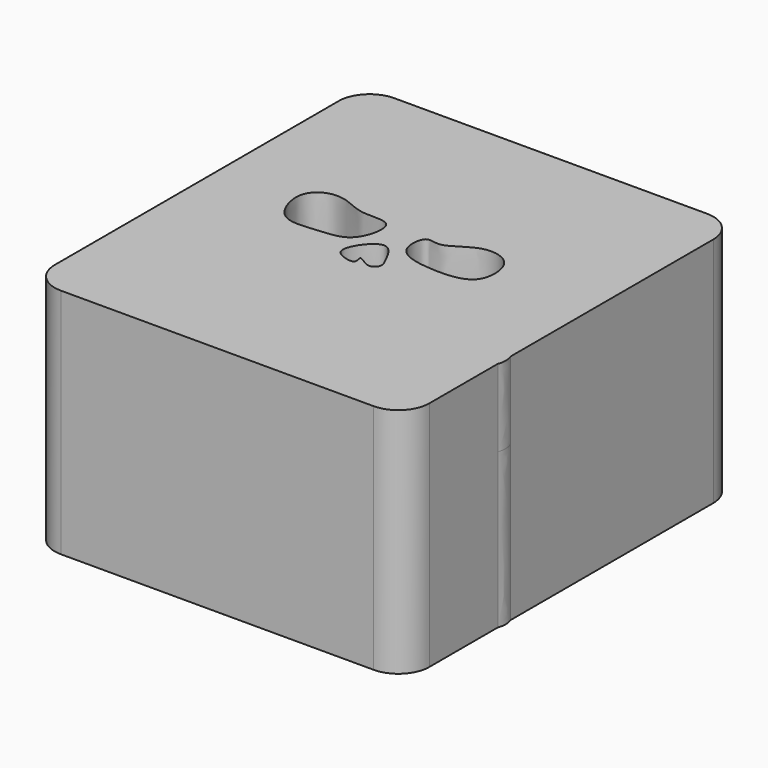
from build123d import *

# Parameters (mm, degrees)
F1_DEPTH = 12.7
F2_DEPTH = 25.4


with BuildPart() as f1:
    # F0 (on Top) → F1 (new body)
    with BuildSketch(Plane.XY):
        with BuildLine():
            add(Edge.make_bspline(
                [(32.0600830018, -6.9587179934), (31.9279431466, -7.2655833349), (30.6961275394, -9.0813052485), (24.791663381, -8.056520931), (22.2785653578, -6.8297847191), (16.3749937923, -7.6860126893), (9.1538072627, -9.6365706593), (21.0394473651, -13.1174215567), (21.7646715107, -8.4218784607), (26.8757679457, -9.6192253384), (24.4571880864, -14.7097531865), (27.2277815795, -15.5632771856), (27.2688108759, -21.0690380623), (20.9317791593, -21.5004092712), (19.7785765546, -15.3029212456), (4.4664783408, -13.8315983034), (2.3876221669, -11.9187555489), (-6.9774400736, -14.803991134), (-10.9186975514, -14.98024999), (-14.2636249239, -16.3785419309), (-14.8010905155, -20.5392096864), (-19.8013697728, -21.9770988567), (-20.0496302774, -17.9500658207), (-24.8978081217, -18.2888937076), (-26.4995584652, -14.0884455986), (-22.9086976911, -10.7859382167), (-17.5875054636, -13.5862391176), (-7.7808817805, -9.5727542339), (-19.6728530529, -7.4934024055), (-22.4866685608, -10.6918802178), (-26.6301293609, -10.0563743781), (-25.6837292438, -6.9094906148), (-29.9559645622, -3.9316833795), (-27.6001470413, -1.5156820107), (-24.3746840641, 1.0480248366), (-21.5536743393, -3.3252973712), (-8.2074081298, -5.7680272658), (-12.7065916165, -2.7540087512), (-6.860693336, 0.8520234929), (-13.8716656814, 0.0011957897), (-18.8939763988, -0.9843613641), (-19.8877176996, 2.5672232338), (-17.0837583564, 4.807611508), (-21.1741542883, 9.4925146081), (-22.1415771702, 14.4084623248), (-19.7709394835, 17.2985035609), (-21.130572587, 25.1078773987), (-16.6736603832, 37.2404957551), (0.0105530796, 43.9563039301), (13.3217740467, 39.1018456604), (21.214562196, 31.0295967972), (20.1092636644, 19.0706830261), (25.2483770353, 14.7007120639), (17.3856596217, 6.5350889048), (21.4718992519, 5.213301594), (19.6113848455, -2.3022457903), (10.6591475173, 0.4778285608), (10.375129059, 0)],
                knots=[0.1258052667, 0.1258052667, 0.1258052667, 0.1258052667, 0.1290063272, 0.1469978802, 0.1595257596, 0.1775753444, 0.1917199496, 0.2117601133, 0.2250067333, 0.2376369789, 0.2521137174, 0.262530201, 0.2770292776, 0.2918862682, 0.3080887494, 0.3347089141, 0.3472367932, 0.3686209116, 0.3835259948, 0.3959133533, 0.4099117027, 0.4235852796, 0.4353005194, 0.4495008004, 0.462727898, 0.47621158, 0.49396925, 0.5113598928, 0.530824366, 0.5461552724, 0.5582206026, 0.5694884324, 0.5840245065, 0.5955225697, 0.6083315878, 0.6242625106, 0.646958663, 0.6566398427, 0.670297896, 0.6850923617, 0.7014159022, 0.712591613, 0.7242643802, 0.7408965725, 0.7564728501, 0.7692249333, 0.7884930391, 0.8133418637, 0.8423309575, 0.8685650454, 0.8916665626, 0.9153003126, 0.9317575383, 0.9524921578, 0.9636311935, 0.9800078263, 1, 1, 1, 1], degree=3))
            add(Edge.make_bspline(
                [(10.375129059, 0), (10.1954984175, -0.3022080022), (13.2262800231, -2.300692347), (11.2575333323, -5.5660512266), (16.2652582547, -3.0549915603), (19.6837468577, -2.442276314), (24.0024884598, -0.3217624652), (24.3241350746, 1.7953321471), (27.6634241271, 2.5279411056), (26.7607617348, -2.4410175394), (30.9244000425, -2.3702453862), (31.9255405749, -4.0174952536), (32.0600830019, -4.3580081507)],
                knots=[0, 0, 0, 0, 0.0126442732, 0.0228755931, 0.03664556, 0.0514679112, 0.0662850498, 0.0762354893, 0.0864878847, 0.0994736568, 0.1142118622, 0.1176193812, 0.1176193812, 0.1176193812, 0.1176193812], degree=3))
            Line((32.0600830019, -4.3580081507), (32.0600830019, 37.2617426646))
            ThreePointArc((32.0600830019, 37.2617426646), (30.5721854503, 40.853845113), (26.9800830019, 42.3417426646))
            Line((26.9800830019, 42.3417426646), (-24.3629324567, 42.3417426646))
            ThreePointArc((-24.3629324567, 42.3417426646), (-27.9550349052, 40.853845113), (-29.4429324567, 37.2617426646))
            Line((-29.4429324567, 37.2617426646), (-29.4429324567, -20.9980267417))
            ThreePointArc((-29.4429324567, -20.9980267417), (-27.9550349052, -24.5901291902), (-24.3629324567, -26.0780267417))
            Line((-24.3629324567, -26.0780267417), (26.9800830019, -26.0780267417))
            ThreePointArc((26.9800830019, -26.0780267417), (30.5721854503, -24.5901291902), (32.0600830019, -20.9980267417))
            Line((32.0600830019, -20.9980267417), (32.0600830019, -6.9587179934))
        make_face()
        with BuildLine():
            add(Edge.make_bspline(
                [(10.375129059, 0), (10.1954984175, -0.3022080022), (13.2262800231, -2.300692347), (11.2575333323, -5.5660512266), (16.2652582547, -3.0549915603), (19.6837468577, -2.442276314), (24.0024884598, -0.3217624652), (24.3241350746, 1.7953321471), (27.6634241271, 2.5279411056), (26.7607617348, -2.4410175394), (30.9244000425, -2.3702453862), (31.9255405749, -4.0174952536), (32.0600830019, -4.3580081507)],
                knots=[0, 0, 0, 0, 0.0126442732, 0.0228755931, 0.03664556, 0.0514679112, 0.0662850498, 0.0762354893, 0.0864878847, 0.0994736568, 0.1142118622, 0.1176193812, 0.1176193812, 0.1176193812, 0.1176193812], degree=3))
            add(Edge.make_bspline(
                [(32.0600830018, -6.9587179934), (31.9279431466, -7.2655833349), (30.6961275394, -9.0813052485), (24.791663381, -8.056520931), (22.2785653578, -6.8297847191), (16.3749937923, -7.6860126893), (9.1538072627, -9.6365706593), (21.0394473651, -13.1174215567), (21.7646715107, -8.4218784607), (26.8757679457, -9.6192253384), (24.4571880864, -14.7097531865), (27.2277815795, -15.5632771856), (27.2688108759, -21.0690380623), (20.9317791593, -21.5004092712), (19.7785765546, -15.3029212456), (4.4664783408, -13.8315983034), (2.3876221669, -11.9187555489), (-6.9774400736, -14.803991134), (-10.9186975514, -14.98024999), (-14.2636249239, -16.3785419309), (-14.8010905155, -20.5392096864), (-19.8013697728, -21.9770988567), (-20.0496302774, -17.9500658207), (-24.8978081217, -18.2888937076), (-26.4995584652, -14.0884455986), (-22.9086976911, -10.7859382167), (-17.5875054636, -13.5862391176), (-7.7808817805, -9.5727542339), (-19.6728530529, -7.4934024055), (-22.4866685608, -10.6918802178), (-26.6301293609, -10.0563743781), (-25.6837292438, -6.9094906148), (-29.9559645622, -3.9316833795), (-27.6001470413, -1.5156820107), (-24.3746840641, 1.0480248366), (-21.5536743393, -3.3252973712), (-8.2074081298, -5.7680272658), (-12.7065916165, -2.7540087512), (-6.860693336, 0.8520234929), (-13.8716656814, 0.0011957897), (-18.8939763988, -0.9843613641), (-19.8877176996, 2.5672232338), (-17.0837583564, 4.807611508), (-21.1741542883, 9.4925146081), (-22.1415771702, 14.4084623248), (-19.7709394835, 17.2985035609), (-21.130572587, 25.1078773987), (-16.6736603832, 37.2404957551), (0.0105530796, 43.9563039301), (13.3217740467, 39.1018456604), (21.214562196, 31.0295967972), (20.1092636644, 19.0706830261), (25.2483770353, 14.7007120639), (17.3856596217, 6.5350889048), (21.4718992519, 5.213301594), (19.6113848455, -2.3022457903), (10.6591475173, 0.4778285608), (10.375129059, 0)],
                knots=[0.1258052667, 0.1258052667, 0.1258052667, 0.1258052667, 0.1290063272, 0.1469978802, 0.1595257596, 0.1775753444, 0.1917199496, 0.2117601133, 0.2250067333, 0.2376369789, 0.2521137174, 0.262530201, 0.2770292776, 0.2918862682, 0.3080887494, 0.3347089141, 0.3472367932, 0.3686209116, 0.3835259948, 0.3959133533, 0.4099117027, 0.4235852796, 0.4353005194, 0.4495008004, 0.462727898, 0.47621158, 0.49396925, 0.5113598928, 0.530824366, 0.5461552724, 0.5582206026, 0.5694884324, 0.5840245065, 0.5955225697, 0.6083315878, 0.6242625106, 0.646958663, 0.6566398427, 0.670297896, 0.6850923617, 0.7014159022, 0.712591613, 0.7242643802, 0.7408965725, 0.7564728501, 0.7692249333, 0.7884930391, 0.8133418637, 0.8423309575, 0.8685650454, 0.8916665626, 0.9153003126, 0.9317575383, 0.9524921578, 0.9636311935, 0.9800078263, 1, 1, 1, 1], degree=3))
            Line((32.0600830019, -6.9587179934), (32.0600830019, -4.3580081507))
        make_face()
        with BuildLine():
            add(Edge.make_bspline(
                [(0, 4.9538905732), (-0.1357612224, 4.8398633161), (0.4954678989, 3.3037312894), (-1.9901092041, 3.7320916296), (-4.3878171824, 5.2660563259), (0.1620122815, 11.7121796278), (2.7615235426, 6.7669994781), (3.7090511954, 4.7979390424), (2.0105041866, 3.3924030734), (0.1890098463, 5.1126419012), (0, 4.9538905732)],
                knots=[0, 0, 0, 0, 0.0859540333, 0.1941104754, 0.3158783073, 0.5019291755, 0.6622076676, 0.7806962362, 0.8803328497, 1, 1, 1, 1], degree=3))
        make_face(mode=Mode.SUBTRACT)
        with BuildLine():
            add(Edge.make_bspline(
                [(-3.2714370172, 14.3008520827), (-4.0427079695, 15.2798123334), (-7.9049926304, 14.4547836702), (-11.2870972748, 16.6478262385), (-14.7594654865, 16.7415386684), (-17.1992688942, 14.6158588934), (-17.0284222623, 11.0243235351), (-14.6709333424, 6.7677368028), (-8.8385507894, 7.7192453981), (-3.5829829727, 7.7646177732), (-2.4201128785, 13.2202817722), (-3.2714370172, 14.3008520827)],
                knots=[0, 0, 0, 0, 0.1141882991, 0.2253797846, 0.3228219465, 0.4139433758, 0.5142105543, 0.625571825, 0.7528782979, 0.873959657, 1, 1, 1, 1], degree=3))
        make_face(mode=Mode.SUBTRACT)
        with BuildLine():
            add(Edge.make_bspline(
                [(13.7400347739, 16.5441241115), (12.6886267213, 16.9946894909), (9.7959440549, 17.187031282), (5.8217538529, 13.4680755853), (2.7464012182, 15.3241039901), (2.149305706, 9.3178369323), (8.6628890767, 8.0247887948), (16.2796739071, 8.3174625748), (16.2893694254, 14.5654978678), (14.6886015191, 16.1376298544), (13.7400347739, 16.5441241115)],
                knots=[0, 0, 0, 0, 0.1167584378, 0.2519988519, 0.342439546, 0.4592708895, 0.6076758447, 0.7636547112, 0.8946620477, 1, 1, 1, 1], degree=3))
        make_face(mode=Mode.SUBTRACT)
        with BuildLine():
            add(Edge.make_bspline(
                [(32.0600830019, -4.3580081507), (32.3832943758, -5.1760225405), (32.3979965544, -6.1739891356), (32.0600830018, -6.9587179934)],
                knots=[0.1176193812, 0.1176193812, 0.1176193812, 0.1176193812, 0.1258052667, 0.1258052667, 0.1258052667, 0.1258052667], degree=3))
            Line((32.0600830019, -4.3580081507), (32.0600830019, -6.9587179934))
        make_face()
    extrude(amount=F1_DEPTH)

    # F2 (add): a face of the model
    f2_faces = [f1.faces().sort_by_distance(p)[0] for p in [
        (29.9204781947, 40.2021378574, 0),
    ]]
    extrude(f2_faces, amount=F2_DEPTH)


solid = f1.part
